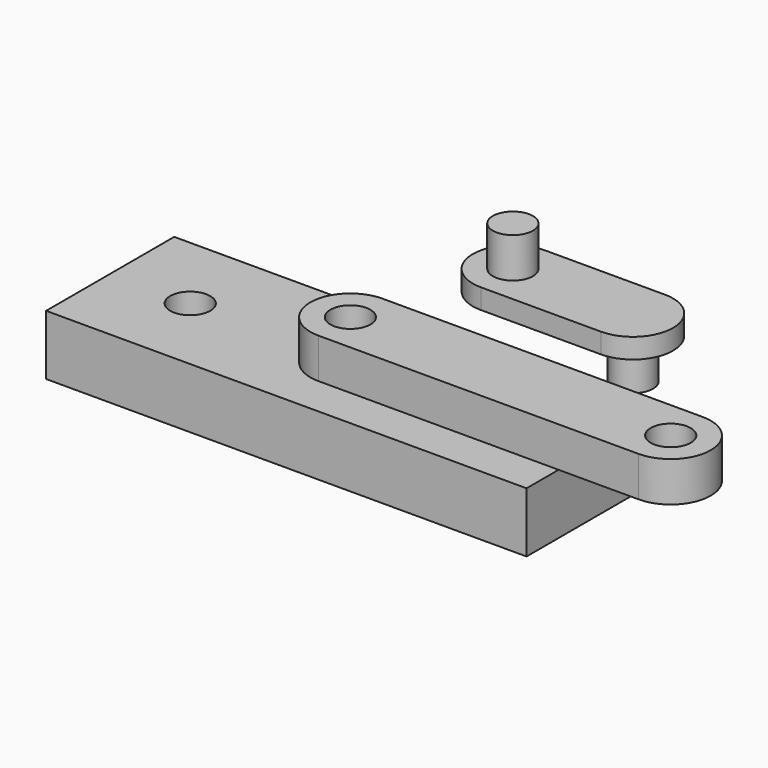
from build123d import *

# Parameters (mm, degrees)
F0_W          = 120
F0_H          = 40
F0_R          = 5
F1_DEPTH      = 15
F2_R          = 5
F3_DEPTH      = 5
F4_DEPTH      = 10
F4_DEPTH_BACK = 5
F5_DEPTH      = 15
F6_R          = 5
F7_DEPTH      = 10


with BuildPart() as f1:
    # F0 (on Top) → F1 (new body)
    with BuildSketch(Plane.XY):
        Rectangle(F0_W, F0_H)
        with Locations((-40, 0)):
            Circle(F0_R, mode=Mode.SUBTRACT)
        with Locations((40, 0)):
            Circle(F0_R, mode=Mode.SUBTRACT)
    extrude(amount=-F1_DEPTH)


with BuildPart() as f3:
    # F2 (on Top) → F3 (new body)
    with BuildSketch(Plane.XY):
        with BuildLine():
            Line((30, 60.72257), (0, 60.72257))
            ThreePointArc((0, 60.72257), (-10, 50.72257), (0, 40.72257))
            Line((0, 40.72257), (30, 40.72257))
            ThreePointArc((30, 40.72257), (40, 50.72257), (30, 60.72257))
        make_face()
        with Locations((0, 50.72257)):
            Circle(F2_R, mode=Mode.SUBTRACT)
        with Locations((30, 50.72257)):
            Circle(F2_R, mode=Mode.SUBTRACT)
    extrude(amount=-F3_DEPTH)

    # F2 (on Top) → F4 (join, two sides)
    with BuildSketch(Plane.XY) as f4_sk:
        with Locations((0, 50.72257)):
            Circle(F2_R)
    extrude(amount=F4_DEPTH)
    extrude(f4_sk.sketch, amount=-F4_DEPTH_BACK)

    # F2 (on Top) → F5 (join)
    with BuildSketch(Plane.XY):
        with Locations((30, 50.72257)):
            Circle(F2_R)
    extrude(amount=-F5_DEPTH)


with BuildPart() as f7:
    # F6 (on Top) → F7 (new body)
    with BuildSketch(Plane.XY):
        with BuildLine():
            Line((80, 10), (0, 10))
            ThreePointArc((0, 10), (-10, 0), (0, -10))
            Line((0, -10), (80, -10))
            ThreePointArc((80, -10), (90, 0), (80, 10))
        make_face()
        Circle(F6_R, mode=Mode.SUBTRACT)
        with Locations((80, 0)):
            Circle(F6_R, mode=Mode.SUBTRACT)
    extrude(amount=F7_DEPTH)


solid = Compound([f1.part, f3.part, f7.part])
